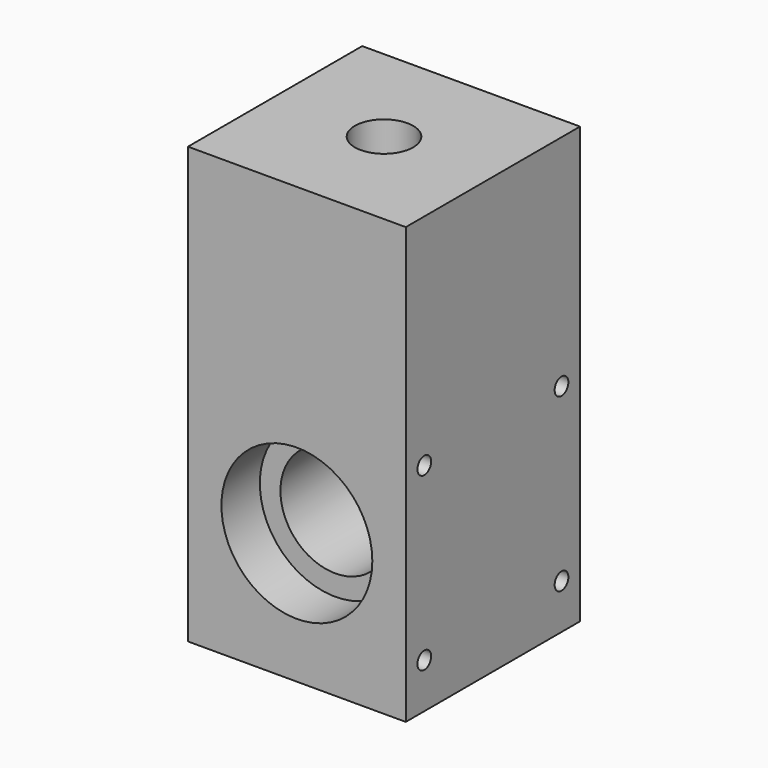
from build123d import *

# Parameters (mm, degrees)
SKETCH_W        = 31.75
SKETCH_H        = 31.75
PAD_DEPTH       = 63.5
SKETCH001_R     = 11
POCKET_DEPTH    = 7
SKETCH002_R     = 8
POCKET001_DEPTH = 31.751
SKETCH003_R     = 1.25
HOLE_DEPTH      = 31.751
SKETCH004_R     = 4.25
HOLE001_DEPTH   = 25


with BuildPart() as part:
    # Sketch → Pad (new body)
    with BuildSketch(Plane.XY):
        Rectangle(SKETCH_W, SKETCH_H)
    extrude(amount=PAD_DEPTH)

    # Sketch001 (on Face2 of Pad) → Pocket (cut)
    with BuildSketch(Plane.XZ.offset(15.875)):
        with Locations((0, 19.05)):
            Circle(SKETCH001_R)
    pocket = extrude(amount=-POCKET_DEPTH, mode=Mode.SUBTRACT)

    # Mirrored: Pocket across XZ
    add(pocket.mirror(Plane.XZ), mode=Mode.SUBTRACT)

    # Sketch002 (on Face3 of Mirrored) → Pocket001 (cut, through all)
    with BuildSketch(Plane.XZ.offset(15.875)):
        with Locations((0, 19.05)):
            Circle(SKETCH002_R)
    extrude(amount=-POCKET001_DEPTH, mode=Mode.SUBTRACT)

    # Sketch003 (on Face1 of Pocket001) → Hole (cut, through all)
    with BuildSketch(Plane(origin=(-15.875, 0, 0), x_dir=(0, -1, 0), z_dir=(-1, 0, 0))):
        with Locations((12.5, 31.55)):
            Circle(SKETCH003_R)
        with Locations((12.5, 6.55)):
            Circle(SKETCH003_R)
        with Locations((-12.5, 6.55)):
            Circle(SKETCH003_R)
        with Locations((-12.5, 31.55)):
            Circle(SKETCH003_R)
    extrude(amount=-HOLE_DEPTH, mode=Mode.SUBTRACT)

    # Sketch004 (on Face4 of Hole) → Hole001 (cut)
    with BuildSketch(Plane.XY.offset(63.5)):
        Circle(SKETCH004_R)
    extrude(amount=-HOLE001_DEPTH, mode=Mode.SUBTRACT)


solid = part.part
